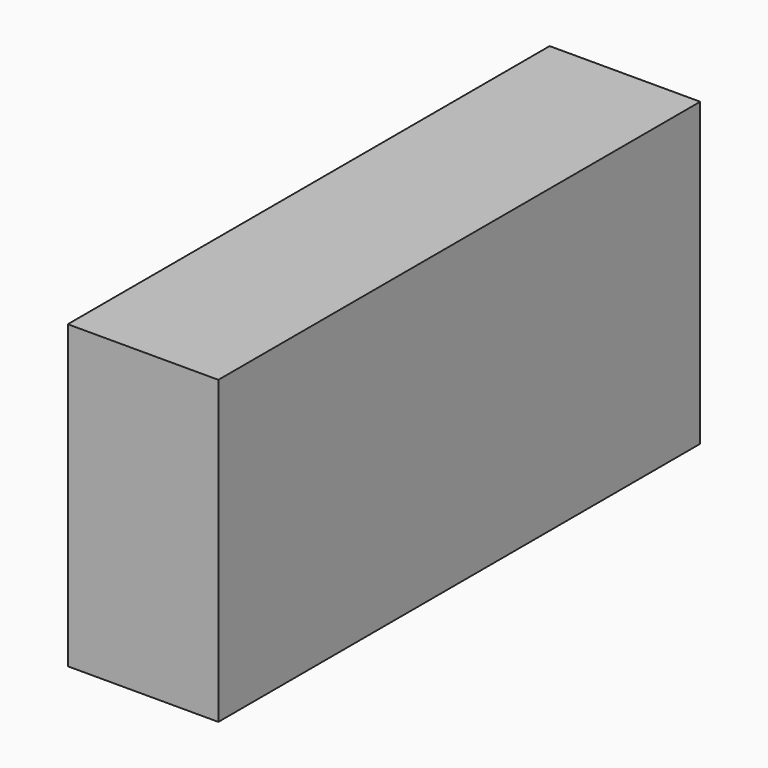
from build123d import *

# Parameters (mm, degrees)
F1_W     = 24
F1_H     = 48
F2_DEPTH = 96


with BuildPart() as f2:
    # F1 (on Front) → F2 (new body)
    with BuildSketch(Plane.XZ):
        Rectangle(F1_W, F1_H)
        Rectangle(F1_W, F1_H)
    extrude(amount=F2_DEPTH)


solid = f2.part
